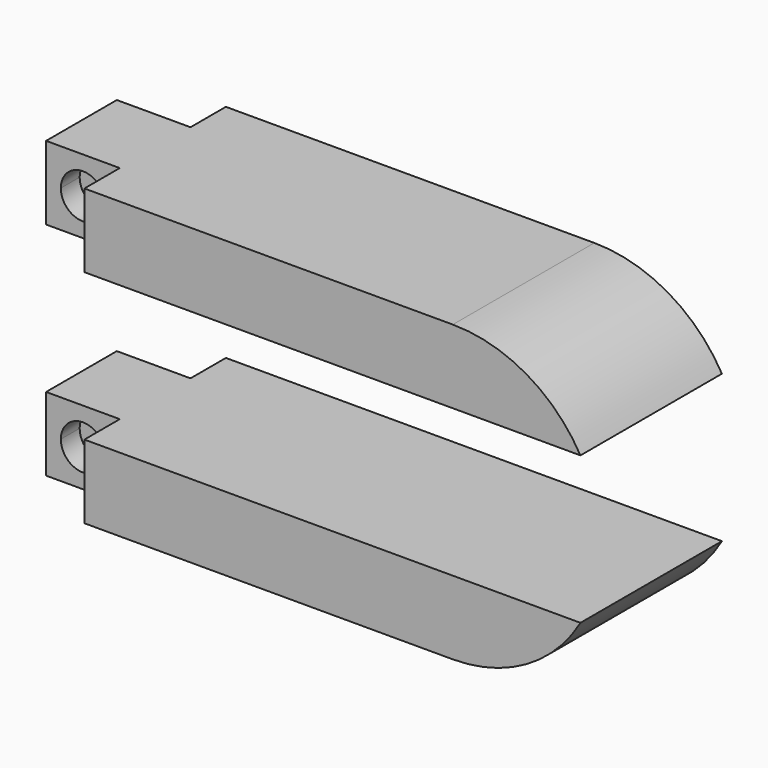
from build123d import *

# Parameters (mm, degrees)
F0_W      = 15.24
F0_H      = 6.35
F1_DEPTH  = 50.8
F3_DEPTH  = 15.24
F5_DEPTH  = 15.24
F6_W      = 3.81
F6_H      = 6.35
F8_DEPTH  = 6.35
F7_W      = 3.81
F7_H      = 6.35
F9_DEPTH  = 6.35
F12_DEPTH = 2.032
F13_DEPTH = 2.032
F16_DEPTH = 2.032
F17_DEPTH = 2.032


with BuildPart() as f1:
    # F0 (on Right) → F1 (new body)
    with BuildSketch(Plane.YZ):
        with Locations((-9.3524721428, 14.0688081446)):
            Rectangle(F0_W, F0_H)
    extrude(amount=-F1_DEPTH)

    # F2 (on face) → F3 (cut, through all)
    with BuildSketch(Plane.XZ.offset(16.9724721428)):
        with BuildLine():
            ThreePointArc((-12.7, 17.2438081446), (-6.35, 15.5423307727), (-1.7014773719, 10.8938081446))
            Line((-1.7014773719, 10.8938081446), (0, 10.8938081446))
            Line((0, 10.8938081446), (0, 17.2438081446))
            Line((0, 17.2438081446), (-12.7, 17.2438081446))
        make_face()
    extrude(amount=-F3_DEPTH, mode=Mode.SUBTRACT)

    # F6 (on face) → F8 (cut)
    with BuildSketch(Plane(origin=(-50.8, 0, 0), x_dir=(0, -1, 0), z_dir=(-1, 0, 0))):
        with Locations((3.6374721428, 14.0688081446)):
            Rectangle(F6_W, F6_H)
        with Locations((15.0674721428, 14.0688081446)):
            Rectangle(F6_W, F6_H)
    extrude(amount=-F8_DEPTH, mode=Mode.SUBTRACT)

    # F10 (on face) → F12 (cut)
    with BuildSketch(Plane.XZ.offset(13.1624721428)):
        with BuildLine():
            Line((-49.53, 14.0688081446), (-47.625, 14.0688081446))
            Line((-47.625, 14.0688081446), (-47.625, 15.9738081446))
            ThreePointArc((-47.625, 15.9738081446), (-48.9720384182, 15.4158465628), (-49.53, 14.0688081446))
        make_face()
        with BuildLine():
            Line((-47.625, 14.0688081446), (-45.72, 14.0688081446))
            ThreePointArc((-45.72, 14.0688081446), (-46.2779615818, 15.4158465628), (-47.625, 15.9738081446))
            Line((-47.625, 15.9738081446), (-47.625, 14.0688081446))
        make_face()
        with BuildLine():
            ThreePointArc((-47.625, 12.1638081446), (-46.2779615818, 12.7217697265), (-45.72, 14.0688081446))
            Line((-45.72, 14.0688081446), (-47.625, 14.0688081446))
            Line((-47.625, 14.0688081446), (-47.625, 12.1638081446))
        make_face()
        with BuildLine():
            Line((-47.625, 12.1638081446), (-47.625, 14.0688081446))
            Line((-47.625, 14.0688081446), (-49.53, 14.0688081446))
            ThreePointArc((-49.53, 14.0688081446), (-48.9720384182, 12.7217697265), (-47.625, 12.1638081446))
        make_face()
    extrude(amount=-F12_DEPTH, mode=Mode.SUBTRACT)

    # F14 (on face) → F16 (cut)
    with BuildSketch(Plane(origin=(0, -5.5424721428, 0), x_dir=(-1, 0, 0), z_dir=(0, 1, 0))):
        with BuildLine():
            Line((45.72, 14.0688081446), (47.625, 14.0688081446))
            Line((47.625, 14.0688081446), (47.625, 15.9738081446))
            ThreePointArc((47.625, 15.9738081446), (46.2779615818, 15.4158465628), (45.72, 14.0688081446))
        make_face()
        with BuildLine():
            Line((47.625, 14.0688081446), (49.53, 14.0688081446))
            ThreePointArc((49.53, 14.0688081446), (48.9720384182, 15.4158465628), (47.625, 15.9738081446))
            Line((47.625, 15.9738081446), (47.625, 14.0688081446))
        make_face()
        with BuildLine():
            ThreePointArc((47.625, 12.1638081446), (48.9720384182, 12.7217697265), (49.53, 14.0688081446))
            Line((49.53, 14.0688081446), (47.625, 14.0688081446))
            Line((47.625, 14.0688081446), (47.625, 12.1638081446))
        make_face()
        with BuildLine():
            Line((47.625, 12.1638081446), (47.625, 14.0688081446))
            Line((47.625, 14.0688081446), (45.72, 14.0688081446))
            ThreePointArc((45.72, 14.0688081446), (46.2779615818, 12.7217697265), (47.625, 12.1638081446))
        make_face()
    extrude(amount=-F16_DEPTH, mode=Mode.SUBTRACT)


with BuildPart() as f1b:
    # F0 (on Right) → F1, piece 2 (new body)
    with BuildSketch(Plane.YZ):
        with Locations((-9.3524721428, -4.9811918554)):
            Rectangle(F0_W, F0_H)
    extrude(amount=-F1_DEPTH)

    # F4 (on face) → F5 (cut, through all)
    with BuildSketch(Plane.XZ.offset(16.9724721428)):
        with BuildLine():
            Line((0, -1.8061918554), (-1.7014773719, -1.8061918554))
            ThreePointArc((-1.7014773719, -1.8061918554), (-6.350000005, -6.4547144863), (-12.7000000115, -8.1561918554))
            Line((-12.7000000115, -8.1561918554), (0, -8.1561918554))
            Line((0, -8.1561918554), (0, -1.8061918554))
        make_face()
    extrude(amount=-F5_DEPTH, mode=Mode.SUBTRACT)

    # F7 (on face) → F9 (cut)
    with BuildSketch(Plane(origin=(-50.8, 0, 0), x_dir=(0, -1, 0), z_dir=(-1, 0, 0))):
        with Locations((3.6374721428, -4.9811918554)):
            Rectangle(F7_W, F7_H)
        with Locations((15.0674721428, -4.9811918554)):
            Rectangle(F7_W, F7_H)
    extrude(amount=-F9_DEPTH, mode=Mode.SUBTRACT)

    # F11 (on face) → F13 (cut)
    with BuildSketch(Plane.XZ.offset(13.1624721428)):
        with BuildLine():
            Line((-49.53, -4.9811918554), (-47.625, -4.9811918554))
            Line((-47.625, -4.9811918554), (-47.625, -3.0761918554))
            ThreePointArc((-47.625, -3.0761918554), (-48.9720384182, -3.6341534372), (-49.53, -4.9811918554))
        make_face()
        with BuildLine():
            Line((-47.625, -4.9811918554), (-45.72, -4.9811918554))
            ThreePointArc((-45.72, -4.9811918554), (-46.2779615818, -3.6341534372), (-47.625, -3.0761918554))
            Line((-47.625, -3.0761918554), (-47.625, -4.9811918554))
        make_face()
        with BuildLine():
            ThreePointArc((-47.625, -6.8861918554), (-46.2779615818, -6.3282302735), (-45.72, -4.9811918554))
            Line((-45.72, -4.9811918554), (-47.625, -4.9811918554))
            Line((-47.625, -4.9811918554), (-47.625, -6.8861918554))
        make_face()
        with BuildLine():
            Line((-47.625, -6.8861918554), (-47.625, -4.9811918554))
            Line((-47.625, -4.9811918554), (-49.53, -4.9811918554))
            ThreePointArc((-49.53, -4.9811918554), (-48.9720384182, -6.3282302735), (-47.625, -6.8861918554))
        make_face()
    extrude(amount=-F13_DEPTH, mode=Mode.SUBTRACT)

    # F15 (on face) → F17 (cut)
    with BuildSketch(Plane(origin=(0, -5.5424721428, 0), x_dir=(-1, 0, 0), z_dir=(0, 1, 0))):
        with BuildLine():
            Line((45.72, -4.9811918554), (47.625, -4.9811918554))
            Line((47.625, -4.9811918554), (47.625, -3.0761918554))
            ThreePointArc((47.625, -3.0761918554), (46.2779615818, -3.6341534372), (45.72, -4.9811918554))
        make_face()
        with BuildLine():
            Line((47.625, -4.9811918554), (49.53, -4.9811918554))
            ThreePointArc((49.53, -4.9811918554), (48.9720384182, -3.6341534372), (47.625, -3.0761918554))
            Line((47.625, -3.0761918554), (47.625, -4.9811918554))
        make_face()
        with BuildLine():
            ThreePointArc((47.625, -6.8861918554), (48.9720384182, -6.3282302735), (49.53, -4.9811918554))
            Line((49.53, -4.9811918554), (47.625, -4.9811918554))
            Line((47.625, -4.9811918554), (47.625, -6.8861918554))
        make_face()
        with BuildLine():
            Line((47.625, -6.8861918554), (47.625, -4.9811918554))
            Line((47.625, -4.9811918554), (45.72, -4.9811918554))
            ThreePointArc((45.72, -4.9811918554), (46.2779615818, -6.3282302735), (47.625, -6.8861918554))
        make_face()
    extrude(amount=-F17_DEPTH, mode=Mode.SUBTRACT)


solid = Compound([f1.part, f1b.part])
